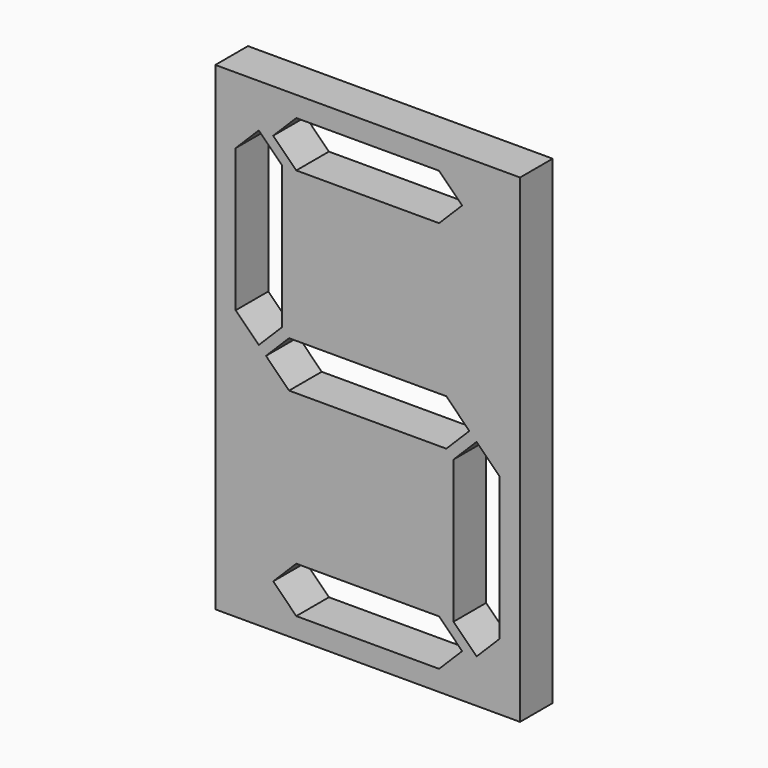
from build123d import *

# Parameters (mm, degrees)
F0_W     = 189.734152
F0_H     = 298.390715
F1_DEPTH = 25.4


with BuildPart() as f1:
    # F0 (on Front) → F1 (new body)
    with BuildSketch(Plane.XZ):
        with Locations((67.798666, -63.308537)):
            Rectangle(F0_W, F0_H)
        Polygon((0, -58.81841), (-14.36841, -44.45), (-14.36841, 44.45), (0, 58.81841), (8.980256, 58.81841), (23.348666, 73.18682), (112.248666, 73.18682), (126.617076, 58.81841), (135.597332, 58.81841), (149.965742, 44.45), (149.965742, -44.45), (135.597332, -58.81841), (135.597332, -67.798666), (149.965742, -82.167076), (149.965742, -171.067076), (135.597332, -185.435486), (126.617076, -185.435486), (112.248666, -199.803895), (23.348666, -199.803895), (8.980256, -185.435486), (0, -185.435486), (-14.36841, -171.067076), (-14.36841, -82.167076), (0, -67.798666), align=None, mode=Mode.SUBTRACT)
        Polygon((14.36841, 44.45), (14.36841, -44.45), (0, -58.81841), (0, -67.798666), (4.490128, -63.308538), (18.858538, -48.940128), (116.738794, -48.940128), (131.107204, -63.308538), (135.597332, -67.798666), (135.597332, -58.81841), (121.228922, -44.45), (121.228922, 44.45), (135.597332, 58.81841), (126.617076, 58.81841), (112.248666, 44.45), (23.348666, 44.45), (8.980256, 58.81841), (0, 58.81841), align=None)
        Polygon((4.490128, -63.308538), (0, -67.798666), (14.36841, -82.167076), (14.36841, -171.067076), (0, -185.435486), (8.980256, -185.435486), (23.348666, -171.067076), (112.248666, -171.067076), (126.617076, -185.435486), (135.597332, -185.435486), (121.228922, -171.067076), (121.228922, -82.167076), (135.597332, -67.798666), (131.107204, -63.308538), (116.738794, -77.676948), (18.858538, -77.676948), align=None)
        Polygon((149.965742, 44.45), (135.597332, 58.81841), (121.228922, 44.45), (121.228922, -44.45), (135.597332, -58.81841), (149.965742, -44.45), align=None)
        Polygon((14.36841, -82.167076), (0, -67.798666), (-14.36841, -82.167076), (-14.36841, -171.067076), (0, -185.435486), (14.36841, -171.067076), align=None)
    extrude(amount=F1_DEPTH)


solid = f1.part
